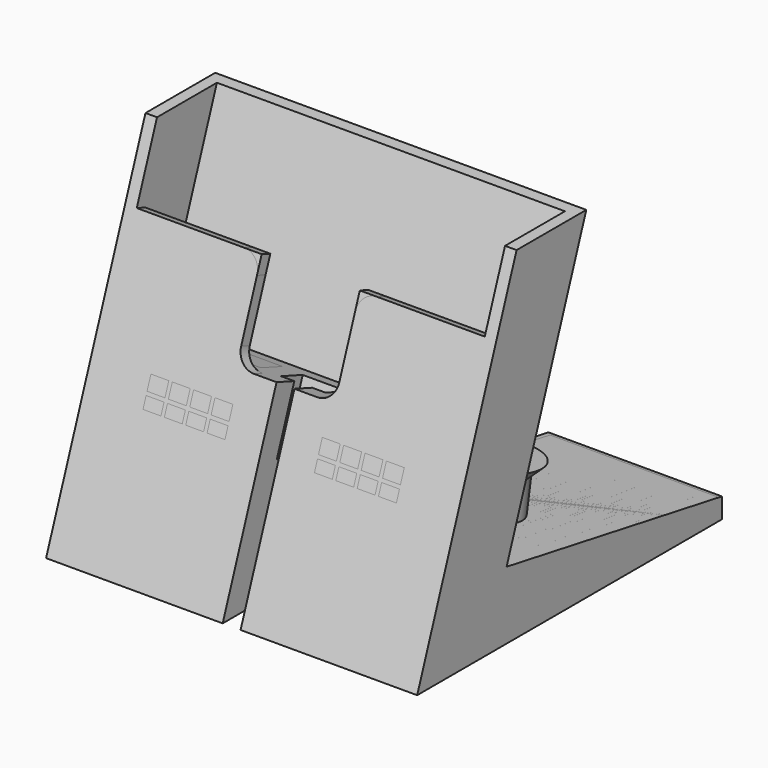
from build123d import *

# Parameters (mm, degrees)
SKETCH_W        = 64.3
SKETCH_H        = 66
PAD_DEPTH       = 64
POCKET_DEPTH    = 64.301
POCKET001_DEPTH = 64.301
POCKET002_DEPTH = 64.301
SKETCH004_W     = 60.3
SKETCH004_H     = 10.2
POCKET003_DEPTH = 34
POCKET004_DEPTH = 23.8796477467
POCKET005_DEPTH = 64.301
SKETCH007_W     = 7.7
SKETCH007_H     = 5
POCKET006_DEPTH = 11.1
SKETCH008_R     = 2.1
POCKET007_DEPTH = 23.0083774385
SKETCH009_W     = 3.1
SKETCH009_H     = 34.1073774385
POCKET008_DEPTH = 6
SKETCH010_W     = 4.19
SKETCH010_H     = 4
POCKET009_DEPTH = 58.7
CHAMFER_SIZE    = 0.1
SKETCH011_W     = 14.2
SKETCH011_H     = 5
POCKET010_DEPTH = 10
SKETCH012_W     = 3.1
SKETCH012_H     = 2.4334377603
SKETCH012_H_2   = 1.9665622397
POCKET011_DEPTH = 5
SKETCH013_R     = 5.5
PAD001_DEPTH    = 6
SKETCH014_R     = 7.5
PAD002_DEPTH    = 2
CHAMFER001_SIZE = 1.99
FILLET_R        = 3
CHAMFER002_SIZE = 4
FILLET001_R     = 0.8
CHAMFER003_SIZE = 12.2


with BuildPart() as pocket009:
    # Sketch → Pad (new body)
    with BuildSketch(Plane.XY):
        with Locations((32.15, 33)):
            Rectangle(SKETCH_W, SKETCH_H)
    extrude(amount=PAD_DEPTH)

    # Sketch001 → Pocket (cut, through all)
    with BuildSketch(Plane.YZ.offset(64.3)):
        Polygon((0, 0), (0, 64), (23.294094993, 64), align=None)
    extrude(amount=-POCKET_DEPTH, mode=Mode.SUBTRACT)

    # Sketch002 → Pocket001 (cut, through all)
    with BuildSketch(Plane.YZ.offset(64.3)):
        Polygon((38.394094993, 64), (19.3667161036, 11.72270615), (66, 3.5), (66, 64), align=None)
    extrude(amount=-POCKET001_DEPTH, mode=Mode.SUBTRACT)

    # Sketch003 → Pocket002 (cut, through all)
    with BuildSketch(Plane.YZ.offset(64.3)):
        Polygon((23.294094993, 64), (36.6277305386, 59.1469535469), (38.394094993, 64), align=None)
    extrude(amount=-POCKET002_DEPTH, mode=Mode.SUBTRACT)

    # Sketch004 → Pocket003 (cut)
    with BuildSketch(Plane(origin=(0, 23.294094993, 64), x_dir=(1, 0, 0), z_dir=(0, 0.3420201433, 0.9396926208))):
        with Locations((32.15, 7.0893585739)):
            Rectangle(SKETCH004_W, SKETCH004_H)
    extrude(amount=-POCKET003_DEPTH, mode=Mode.SUBTRACT)

    # Sketch005 → Pocket004 (cut, through all)
    with BuildSketch(Plane(origin=(0, 1.869385572, -0.6804007046), x_dir=(-1, 0, 0), z_dir=(0, 0.9396926208, -0.3420201433))):
        Polygon((-62.3, 50.1073774385), (-40.65, 50.1073774385), (-40.65, 34.1073774385), (-23.65, 34.1073774385), (-23.65, 50.1073774385), (-2, 50.1073774385), (-2, 68.1073774385), (-62.3, 68.1073774385), align=None)
    extrude(amount=-POCKET004_DEPTH, mode=Mode.SUBTRACT)

    # Sketch006 → Pocket005 (cut, through all)
    with BuildSketch(Plane.YZ.offset(64.3)):
        Polygon((36.6277305386, 59.1469535469), (21.5277305386, 59.1469535469), (23.294094993, 64), align=None)
    extrude(amount=-POCKET005_DEPTH, mode=Mode.SUBTRACT)

    # Sketch007 → Pocket006 (cut)
    with BuildSketch(Plane(origin=(0, 11.66541012, 32.0504508933), x_dir=(1, 0, 0), z_dir=(0, 0.3420201433, 0.9396926208))):
        with Locations((32.15, 6.5893585739)):
            Rectangle(SKETCH007_W, SKETCH007_H)
    extrude(amount=-POCKET006_DEPTH, mode=Mode.SUBTRACT)

    # Sketch008 → Pocket007 (cut, through all)
    with BuildSketch(Plane(origin=(0, 7.8689865291, 21.6198628026), x_dir=(1, 0, 0), z_dir=(0, 0.3420201433, 0.9396926208))):
        with Locations((32.15, 6.5893585739)):
            Circle(SKETCH008_R)
    extrude(amount=-POCKET007_DEPTH, mode=Mode.SUBTRACT)

    # Sketch009 → Pocket008 (cut)
    with BuildSketch(Plane(origin=(0, 0, 0), x_dir=(1, 0, 0), z_dir=(0, -0.9396926208, 0.3420201433))):
        with Locations((32.15, 17.0536887192)):
            Rectangle(SKETCH009_W, SKETCH009_H)
    extrude(amount=-POCKET008_DEPTH, mode=Mode.SUBTRACT)

    # Sketch010 → Pocket009 (cut)
    with BuildSketch(Plane(origin=(0, 66, 0), x_dir=(-1, 0, 0), z_dir=(0, 1, 0))):
        with Locations((-32.15, 2)):
            Rectangle(SKETCH010_W, SKETCH010_H)
    extrude(amount=-POCKET009_DEPTH, mode=Mode.SUBTRACT)


with BuildPart() as chamfer_body:
    # Chamfer base: copy of Pocket009
    add(pocket009.part)

    # Chamfer
    chamfer_edges = [chamfer_body.edges().sort_by_distance(p)[0] for p in [
        (32.15, 10.702903, 4),
    ]]
    chamfer(chamfer_edges, length=CHAMFER_SIZE)


with BuildPart() as chamfer003:
    # Pocket010 base: copy of Pocket009
    add(pocket009.part)

    # Sketch011 → Pocket010 (cut)
    with BuildSketch(Plane(origin=(0, 11.66541012, 32.0504508933), x_dir=(1, 0, 0), z_dir=(0, 0.3420201433, 0.9396926208))):
        with Locations((17.3, 7.0893585739)):
            Rectangle(SKETCH011_W, SKETCH011_H)
        with Locations((47, 7.0893585739)):
            Rectangle(SKETCH011_W, SKETCH011_H)
    extrude(amount=-POCKET010_DEPTH, mode=Mode.SUBTRACT)

    # Sketch012 → Pocket011 (cut)
    with BuildSketch(Plane(origin=(0, 0, 0), x_dir=(1, 0, 0), z_dir=(0, -0.9396926208, 0.3420201433))):
        with Locations((41.45, 27.8906585583)):
            Rectangle(SKETCH012_W, SKETCH012_H)
        with Locations((45.15, 27.8906585583)):
            Rectangle(SKETCH012_W, SKETCH012_H)
        with Locations((48.85, 27.8906585583)):
            Rectangle(SKETCH012_W, SKETCH012_H)
        with Locations((52.55, 27.8906585583)):
            Rectangle(SKETCH012_W, SKETCH012_H)
        with Locations((41.45, 25.0906585583)):
            Rectangle(SKETCH012_W, SKETCH012_H_2)
        with Locations((45.15, 25.0906585583)):
            Rectangle(SKETCH012_W, SKETCH012_H_2)
        with Locations((48.85, 25.0906585583)):
            Rectangle(SKETCH012_W, SKETCH012_H_2)
        with Locations((52.55, 25.0906585583)):
            Rectangle(SKETCH012_W, SKETCH012_H_2)
    pocket011 = extrude(amount=-POCKET011_DEPTH, mode=Mode.SUBTRACT)

    # Mirrored: Pocket011 across Sketch012 Axis16
    add(pocket011.mirror(Plane(origin=(32.15, 11.66541012, 32.0504508933), x_dir=(0, -0.9396926208, 0.3420201433), z_dir=(1, 0, 0))), mode=Mode.SUBTRACT)

    # Sketch013 → Pad001 (new body)
    with BuildSketch(Plane(origin=(0, 2.5886787649, 14.6811268161), x_dir=(1, 0, 0), z_dir=(0, 0.1736481777, 0.984807753))):
        with Locations((48.6858883869, 32.389543077)):
            Circle(SKETCH013_R)
        with Locations((15.6141116131, 32.389543077)):
            Circle(SKETCH013_R)
    extrude(amount=PAD001_DEPTH)

    # Sketch014 → Pad002 (new body)
    with BuildSketch(Plane(origin=(0, 3.6305678309, 20.5899733342), x_dir=(1, 0, 0), z_dir=(0, 0.1736481777, 0.984807753))):
        with Locations((15.6141116131, 32.389543077)):
            Circle(SKETCH014_R)
        with Locations((48.6858883869, 32.389543077)):
            Circle(SKETCH014_R)
    extrude(amount=PAD002_DEPTH)

    # Chamfer001
    chamfer001_edges = [chamfer003.edges().sort_by_distance(p)[0] for p in [
        (8.114112, 35.528041, 14.965588),
        (41.185888, 35.528041, 14.965588),
    ]]
    chamfer(chamfer001_edges, length=CHAMFER001_SIZE)

    # Fillet
    fillet_edges = [chamfer003.edges().sort_by_distance(p)[0] for p in [
        (40.65, 12.600103, 31.710251),
        (40.65, 18.072425, 46.745332),
        (23.65, 12.600103, 31.710251),
        (23.65, 18.072425, 46.745332),
    ]]
    fillet(fillet_edges, radius=FILLET_R)

    # Chamfer002
    chamfer002_edges = [chamfer003.edges().sort_by_distance(p)[0] for p in [
        (17.3, 17.256258, 19.373771),
        (47, 17.256258, 19.373771),
    ]]
    chamfer(chamfer002_edges, length=CHAMFER002_SIZE)

    # Fillet001
    fillet001_edges = [chamfer003.edges().sort_by_distance(p)[0] for p in [
        (15.0275, 66, 3.5),
        (30.055, 64.58218, 3.75),
        (32.15, 63.164359, 4),
        (34.245, 64.58218, 3.75),
        (49.2725, 66, 3.5),
    ]]
    fillet(fillet001_edges, radius=FILLET001_R)

    # Chamfer003
    chamfer003_edges = [chamfer003.edges().sort_by_distance(p)[0] for p in [
        (32.15, 10.702903, 4),
    ]]
    chamfer(chamfer003_edges, length=CHAMFER003_SIZE)


solid = Compound([chamfer_body.part, chamfer003.part])
